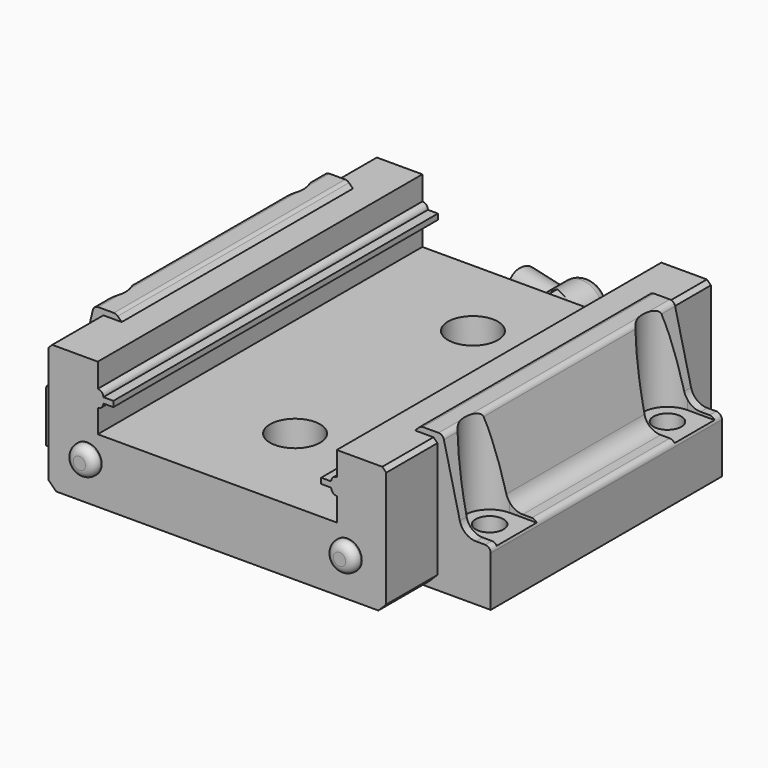
from build123d import *

# Parameters (mm, degrees)
F2_DEPTH      = 73
F5_DEPTH      = 52
F7_D          = 5
F9_DEPTH      = 0.5
F9_DEPTH_BACK = 15.001
F10_R         = 4.5
F11_DEPTH     = 5.3
F12_R         = 2.6
F13_DEPTH     = 1.75
F14_R         = 1.5
F14_2_R       = 1.5
F16_DEPTH     = 3.5
F17_R         = 3.925
F18_DEPTH     = 7.35
F19_R         = 2
F22_R         = 2.5
F23_DEPTH     = 11


with BuildPart() as f2:
    # F1 (on Front) → F2 (new body)
    with BuildSketch(Plane.XZ):
        with BuildLine():
            Line((-21.5, -0.3), (-21.5, 4))
            Line((-21.5, 4), (-29.6928932188, 4))
            Line((-29.6928932188, 4), (-30.4, 3.2928932188))
            Line((-30.4, 3.2928932188), (-30.4, -17.5857864376))
            Line((-30.4, -17.5857864376), (-28.9857864376, -19))
            Line((-28.9857864376, -19), (0, -19))
            Line((0, -19), (28.9857864376, -19))
            Line((28.9857864376, -19), (30.4, -17.5857864376))
            Line((30.4, -17.5857864376), (30.4, 3.2928932188))
            Line((30.4, 3.2928932188), (29.6928932188, 4))
            Line((29.6928932188, 4), (21.5, 4))
            Line((21.5, 4), (21.5, -0.3))
            ThreePointArc((21.5, -0.3), (20.7928932188, -0.5928932188), (20.5, -1.3))
            Line((20.5, -1.3), (18.7, -1.3))
            Line((18.7, -1.3), (18.7, -2.3))
            Line((18.7, -2.3), (20.5, -2.3))
            ThreePointArc((20.5, -2.3), (20.7928932188, -3.0071067812), (21.5, -3.3))
            Line((21.5, -3.3), (21.5, -7.5))
            Line((21.5, -7.5), (0, -7.5))
            Line((0, -7.5), (-21.5, -7.5))
            Line((-21.5, -7.5), (-21.5, -3.3))
            ThreePointArc((-21.5, -3.3), (-20.7928932188, -3.0071067812), (-20.5, -2.3))
            Line((-20.5, -2.3), (-18.7, -2.3))
            Line((-18.7, -2.3), (-18.7, -1.3))
            Line((-18.7, -1.3), (-20.5, -1.3))
            ThreePointArc((-20.5, -1.3), (-20.7928932188, -0.5928932188), (-21.5, -0.3))
        make_face()
    extrude(amount=-F2_DEPTH)

    # F4 (on offset) → F5 (join)
    with BuildSketch(Plane.XZ.offset(-11.5)):
        with BuildLine():
            Line((-6.9, -20), (0, -20))
            Line((0, -20), (6.9, -20))
            Line((6.9, -20), (7.5, -19.4))
            Line((7.5, -19.4), (25, -19.4))
            Line((25, -19.4), (25.6, -20))
            Line((25.6, -20), (40, -20))
            Line((40, -20), (40, -11))
            ThreePointArc((40, -11), (39.7071067812, -10.2928932188), (39, -10))
            Line((39, -10), (37.3651904317, -10))
            ThreePointArc((37.3651904317, -10), (35.5078208633, -9.3558816367), (34.4480285258, -7.7001188574))
            Line((34.4480285258, -7.7001188574), (31.5839904914, 4.2333729525))
            ThreePointArc((31.5839904914, 4.2333729525), (31.2307263789, 4.7852938789), (30.6116031894, 5))
            Line((30.6116031894, 5), (27.8142135624, 5))
            ThreePointArc((27.8142135624, 5), (27.43153013, 4.9238795325), (27.1071067812, 4.7071067812))
            Line((27.1071067812, 4.7071067812), (22.4, 0))
            Line((22.4, 0), (21.5, 0))
            Line((21.5, 0), (21.5, -7.5))
            Line((21.5, -7.5), (0, -7.5))
            Line((0, -7.5), (-21.5, -7.5))
            Line((-21.5, -7.5), (-21.5, 0))
            Line((-21.5, 0), (-22.4, 0))
            Line((-22.4, 0), (-27.1071067812, 4.7071067812))
            ThreePointArc((-27.1071067812, 4.7071067812), (-27.43153013, 4.9238795325), (-27.8142135624, 5))
            Line((-27.8142135624, 5), (-30.6116031894, 5))
            ThreePointArc((-30.6116031894, 5), (-31.2307263789, 4.7852938789), (-31.5839904914, 4.2333729525))
            Line((-31.5839904914, 4.2333729525), (-34.4480285258, -7.7001188574))
            ThreePointArc((-34.4480285258, -7.7001188574), (-35.5078208633, -9.3558816367), (-37.3651904317, -10))
            Line((-37.3651904317, -10), (-39, -10))
            ThreePointArc((-39, -10), (-39.7071067812, -10.2928932188), (-40, -11))
            Line((-40, -11), (-40, -20))
            Line((-40, -20), (-25.6, -20))
            Line((-25.6, -20), (-25, -19.4))
            Line((-25, -19.4), (-7.5, -19.4))
            Line((-7.5, -19.4), (-6.9, -20))
        make_face()
    extrude(amount=-F5_DEPTH)

    # F7 (through all)
    with Locations(Plane(origin=(0, 0, -20), x_dir=(1, 0, 0), z_dir=(0, 0, -1))):
        with Locations((-35, -17.5), (-35, -57.5), (0, -17.5), (0, -57.5), (35, -17.5), (35, -57.5)):
            Hole(F7_D / 2)

    # F8 (on face) → F9 (cut, two sides)
    with BuildSketch(Plane.XY.offset(-10)) as f9_sk:
        with BuildLine():
            Line((-40, 53), (-35, 53))
            ThreePointArc((-35, 53), (-30.5, 57.5), (-35, 62))
            Line((-35, 62), (-40, 62))
            Line((-40, 62), (-40, 53))
        make_face()
        with BuildLine():
            Line((-35, 22), (-40, 22))
            Line((-40, 22), (-40, 13))
            Line((-40, 13), (-35, 13))
            ThreePointArc((-35, 13), (-30.5, 17.5), (-35, 22))
        make_face()
        with BuildLine():
            Line((40, 22), (35, 22))
            ThreePointArc((35, 22), (30.5, 17.5), (35, 13))
            Line((35, 13), (40, 13))
            Line((40, 13), (40, 22))
        make_face()
        with BuildLine():
            Line((35, 53), (40, 53))
            Line((40, 53), (40, 62))
            Line((40, 62), (35, 62))
            ThreePointArc((35, 62), (30.5, 57.5), (35, 53))
        make_face()
    extrude(amount=-F9_DEPTH, mode=Mode.SUBTRACT)
    extrude(f9_sk.sketch, amount=F9_DEPTH_BACK, mode=Mode.SUBTRACT)

    # F10 (on face) → F11 (cut)
    with BuildSketch(Plane.XY.offset(-7.5)):
        with Locations((0, 57.5)):
            Circle(F10_R)
        with Locations((0, 17.5)):
            Circle(F10_R)
    extrude(amount=-F11_DEPTH, mode=Mode.SUBTRACT)

    # F15 (on face) → F16 (join)
    with BuildSketch(Plane(origin=(0, 73, 0), x_dir=(-1, 0, 0), z_dir=(0, 1, 0))):
        Polygon((4, -10.9405989232), (0, -8.6311978465), (-4, -10.9405989232), (-4, -15.5594010768), (0, -17.8688021535), (4, -15.5594010768), align=None)
    extrude(amount=F16_DEPTH)

    # F17 (on face) → F18 (join)
    with BuildSketch(Plane(origin=(0, 76.5, 0), x_dir=(-1, 0, 0), z_dir=(0, 1, 0))):
        with Locations((0, -13.25)):
            Circle(F17_R)
    extrude(amount=F18_DEPTH)

    # F19
    f19_edges = [f2.edges().sort_by_distance(p)[0] for p in [
        (3.925, 83.85, -13.25),
    ]]
    fillet(f19_edges, radius=F19_R)

    # F22 (on line) → F23 (join)
    with BuildSketch(Plane(origin=(-19.792670384, 5.3034300455, 0), x_dir=(-0.2588190451, -0.9659258263, 0), z_dir=(-0.9659258263, 0.2588190451, 0))):
        with Locations((-76.4730059807, -13.25)):
            Circle(F22_R)
    extrude(amount=F23_DEPTH)



with BuildPart() as f13:
    # F12 (on face) → F13 (new body)
    with BuildSketch(Plane.XZ):
        with Locations((-23.4, -12)):
            Circle(F12_R)
    extrude(amount=F13_DEPTH)

    # F14
    f14_edges = [f13.edges().sort_by_distance(p)[0] for p in [
        (-26, -1.75, -12),
    ]]
    fillet(f14_edges, radius=F14_R)


with BuildPart() as f13b:
    # F12 (on face) → F13, piece 2 (new body)
    with BuildSketch(Plane.XZ):
        with Locations((23.4, -12)):
            Circle(F12_R)
    extrude(amount=F13_DEPTH)

    # F14#2
    f14_2_edges = [f13b.edges().sort_by_distance(p)[0] for p in [
        (20.8, -1.75, -12),
    ]]
    fillet(f14_2_edges, radius=F14_2_R)


with BuildPart() as f2_1:
    add(f2.part)

    add(f13.part)  # F26 merges F13

    add(f13b.part)  # F26 merges F13b
    # F26: F13, F13b across plane
    add(f13.part.mirror(Plane.XZ.offset(-36.5)))
    add(f13b.part.mirror(Plane.XZ.offset(-36.5)))


solid = f2_1.part
